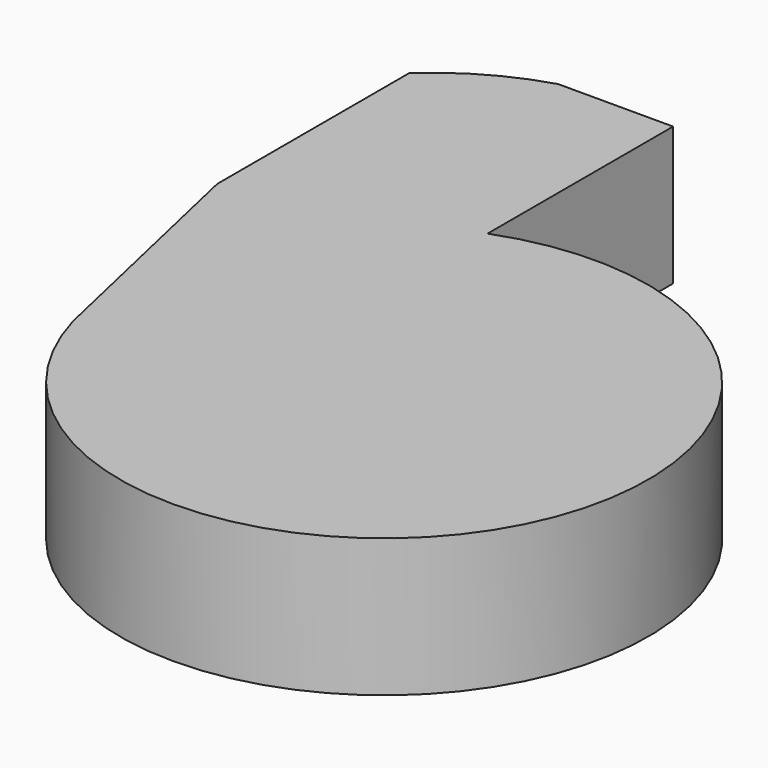
from build123d import *

# Parameters (mm, degrees)
PAD_DEPTH = 10


with BuildPart() as part:
    # Sketch002 → Pad (new body)
    with BuildSketch(Plane.XY):
        with BuildLine():
            ThreePointArc((-18.809847, -3.316572), (16.610979, -9.427904), (-6.796374, 17.849911))
            Line((-6.796374, 34.628607), (-6.796374, 17.849911))
            Line((-6.796374, 34.628607), (-15.115935, 34.628607))
            ThreePointArc((-15.115935, 34.628607), (-19.057395, 32.946654), (-22.522612, 30.425474))
            Line((-22.522612, 30.425474), (-22.522612, 13.051797))
            Line((-22.522612, 13.051797), (-18.809847, -3.316572))
        make_face()
    extrude(amount=PAD_DEPTH)


solid = part.part
